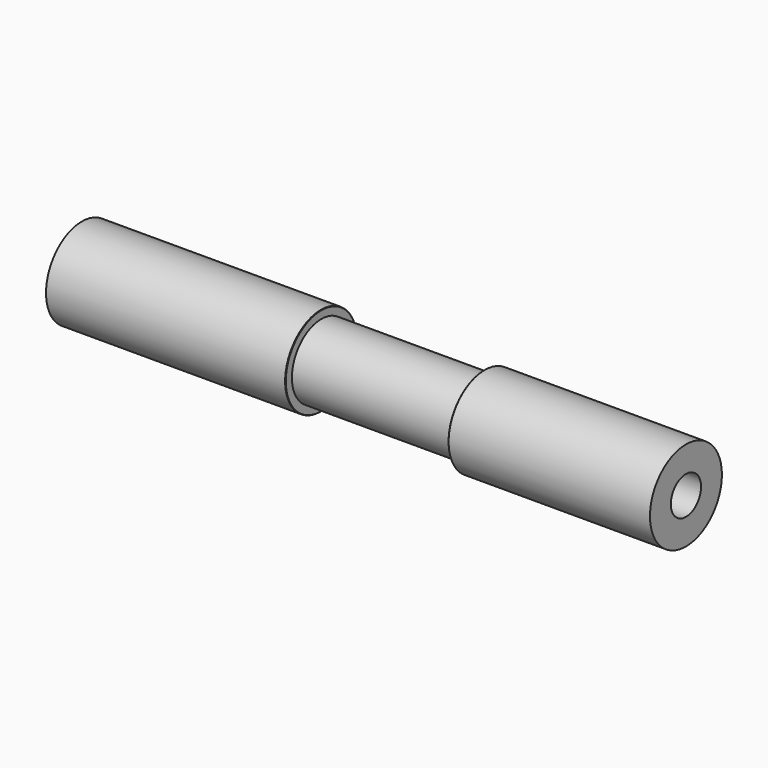
from build123d import *

# Parameters (mm, degrees)
F0_R     = 5.925
F1_DEPTH = 31.678
F2_R     = 4.865
F3_DEPTH = 21.553
F4_R     = 5.95
F4_R_2   = 4.865
F5_DEPTH = 26.679
F7_D     = 5
F8_SIZE  = 0.05
F9_SIZE  = 0.05


with BuildPart() as f1:
    # F0 (on Right) → F1 (new body)
    with BuildSketch(Plane.YZ):
        Circle(F0_R)
    extrude(amount=F1_DEPTH)

    # F2 (on face) → F3 (join)
    with BuildSketch(Plane.YZ.offset(31.678)):
        Circle(F2_R)
    extrude(amount=F3_DEPTH)

    # F4 (on face) → F5 (join)
    with BuildSketch(Plane.YZ.offset(53.231)):
        Circle(F4_R)
        Circle(F4_R_2, mode=Mode.SUBTRACT)
        Circle(F4_R_2)
    extrude(amount=F5_DEPTH)

    # F7 (through all)
    with Locations(Plane.YZ.offset(79.91)):
        with Locations((0, 0)):
            Hole(F7_D / 2)

    # F8
    f8_edges = [f1.edges().sort_by_distance(p)[0] for p in [
        (31.678, -5.925, 0),
    ]]
    chamfer(f8_edges, length=F8_SIZE)

    # F9
    f9_edges = [f1.edges().sort_by_distance(p)[0] for p in [
        (53.231, -5.95, 0),
    ]]
    chamfer(f9_edges, length=F9_SIZE)


solid = f1.part
